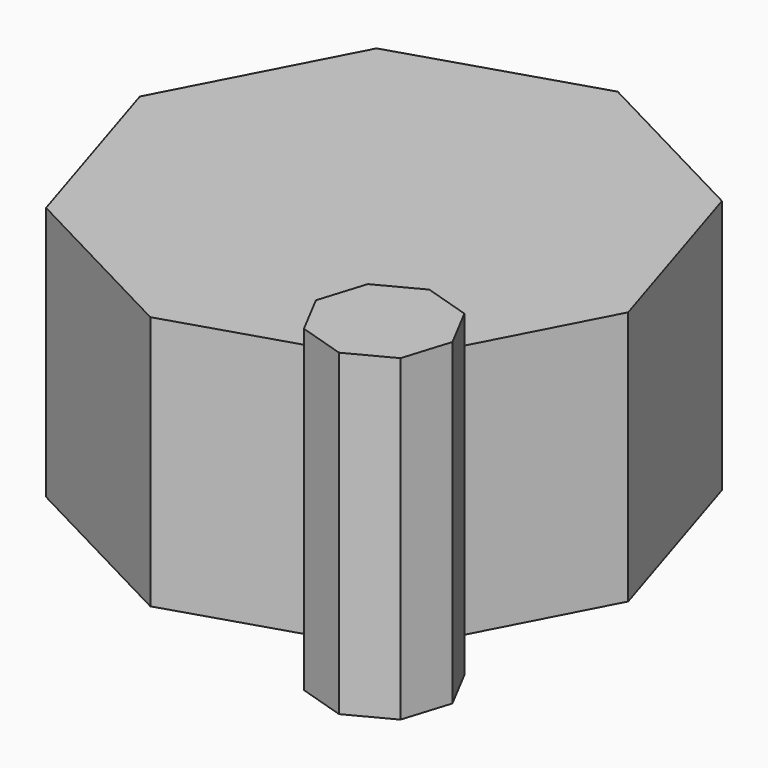
from build123d import *

# Parameters (mm, degrees)
F1_DEPTH = 101.6
F3_DEPTH = 127


with BuildPart() as f1:
    # F0 (on Top) → F1 (new body)
    with BuildSketch(Plane.XY):
        Polygon((-1.068848, -114.950339), (75.857416, -90.820298), (113.189983, -19.362699), (89.059941, 57.563566), (17.602342, 94.896133), (-59.323922, 70.766091), (-96.656489, -0.691508), (-72.526447, -77.617772), align=None)
    extrude(amount=F1_DEPTH)

    # F2 (on Top) → F3 (join)
    with BuildSketch(Plane.XY):
        Polygon((71.659331, -129.208639), (90.299189, -135.023773), (107.59148, -125.955324), (113.406613, -107.315466), (104.338164, -90.023175), (85.698307, -84.208041), (68.406016, -93.276491), (62.590882, -111.916348), align=None)
    extrude(amount=F3_DEPTH)


solid = f1.part
